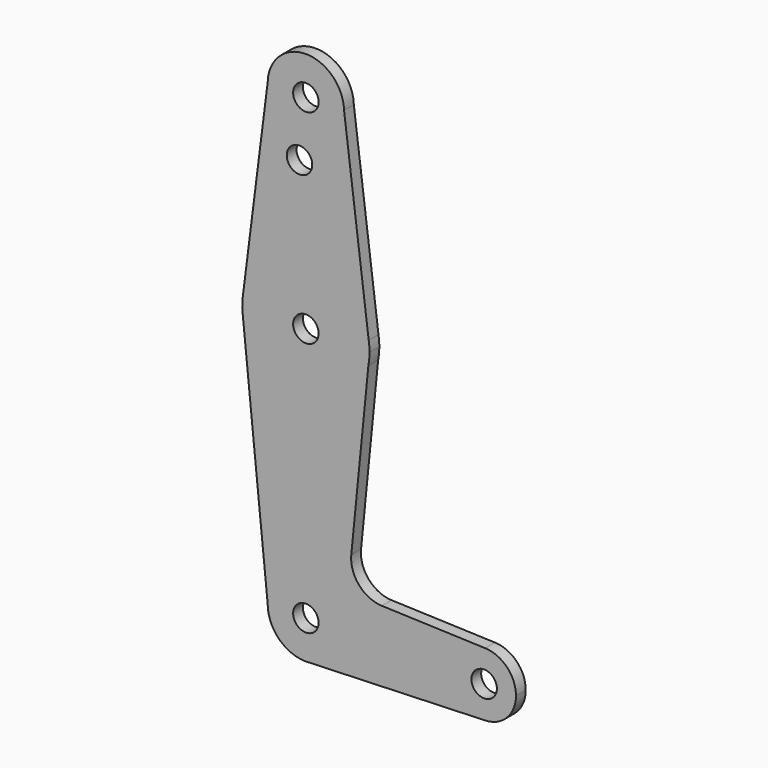
from build123d import *

# Parameters (mm, degrees)
F0_R     = 3.175
F1_DEPTH = 3.048


with BuildPart() as f1:
    # F0 (on Front) → F1 (new body)
    with BuildSketch(Plane.XZ):
        with BuildLine():
            Line((0.6773435479, -9.500885786), (0, -9.525))
            ThreePointArc((0, -9.525), (0.3388863295, -9.5189695375), (0.6773435479, -9.500885786))
        make_face()
        with BuildLine():
            ThreePointArc((-9.5222748965, 114.5278284349), (-0.113922366, 104.7756813002), (9.525, 114.3))
            ThreePointArc((9.525, 114.3), (9.5243229812, 114.4135638542), (9.5222920212, 114.5271115646))
            ThreePointArc((9.5222920212, 114.5271115646), (0.0003585374, 123.8249999933), (-9.5222748965, 114.5278284349))
        make_face()
        with Locations((0, 114.3)):
            Circle(F0_R, mode=Mode.SUBTRACT)
        with BuildLine():
            ThreePointArc((52.3875, 0), (50.1616327839, 5.5119104847), (44.7324052746, 7.9324746146))
            ThreePointArc((44.7324052746, 7.9324746146), (36.5125, 0), (44.7324052746, -7.9324746146))
            ThreePointArc((44.7324052746, -7.9324746146), (50.1616327839, -5.5119104847), (52.3875, 0))
        make_face()
        with Locations((44.45, 0)):
            Circle(F0_R, mode=Mode.SUBTRACT)
        with BuildLine():
            ThreePointArc((15.875, 63.5), (15.8222518751, 64.7930470215), (15.6643580347, 66.0775011856))
            ThreePointArc((15.6643580347, 66.0775011856), (0.1872204743, 79.3738959772), (-15.5992098331, 66.4462310811))
            ThreePointArc((-15.5992098331, 66.4462310811), (-15.8719857971, 63.8093410024), (-15.7021626004, 61.1638247776))
            ThreePointArc((-15.7021626004, 61.1638247776), (-0.3313756349, 47.6284589536), (15.5909692601, 60.5104678409))
            ThreePointArc((15.5909692601, 60.5104678409), (15.8038327947, 61.998502748), (15.875, 63.5))
        make_face()
        with Locations((0, 63.5)):
            Circle(F0_R, mode=Mode.SUBTRACT)
        with BuildLine():
            ThreePointArc((15.5909692601, 60.5104678409), (-0.3313756349, 47.6284589536), (-15.7021626004, 61.1638247776))
            Line((-15.7021626004, 61.1638247776), (-9.525, 0))
            ThreePointArc((-9.525, 0), (0, 9.525), (9.525, 0))
            ThreePointArc((9.525, 0), (6.9705567315, -6.4912990883), (0.6773435479, -9.500885786))
            Line((0.6773435479, -9.500885786), (44.7324052746, -7.9324746146))
            ThreePointArc((44.7324052746, -7.9324746146), (36.5125, 0), (44.7324052746, 7.9324746146))
            Line((44.7324052746, 7.9324746146), (18.9492321382, 8.8503854107))
            ThreePointArc((18.9492321382, 8.8503854107), (13.2447848177, 11.5650772891), (11.3209303823, 17.5824733487))
            Line((11.3209303823, 17.5824733487), (15.5909692601, 60.5104678409))
        make_face()
        with BuildLine():
            ThreePointArc((9.525, 0), (0, 9.525), (-9.525, 0))
            ThreePointArc((-9.525, 0), (-6.7351920908, -6.7351920908), (0, -9.525))
            Line((0, -9.525), (0.6773435479, -9.500885786))
            ThreePointArc((0.6773435479, -9.500885786), (6.9705567315, -6.4912990883), (9.525, 0))
        make_face()
        Circle(F0_R, mode=Mode.SUBTRACT)
        with BuildLine():
            ThreePointArc((9.5222920212, 114.5271115646), (9.5243229812, 114.4135638542), (9.525, 114.3))
            ThreePointArc((9.525, 114.3), (-0.113922366, 104.7756813002), (-9.5222748965, 114.5278284349))
            Line((-9.5222748965, 114.5278284349), (-15.5992098331, 66.4462310811))
            ThreePointArc((-15.5992098331, 66.4462310811), (0.1872204743, 79.3738959772), (15.6643580347, 66.0775011856))
            Line((15.6643580347, 66.0775011856), (9.5222920212, 114.5271115646))
        make_face()
        with Locations((-1.5875, 100.0252)):
            Circle(F0_R, mode=Mode.SUBTRACT)
    extrude(amount=F1_DEPTH)


solid = f1.part
